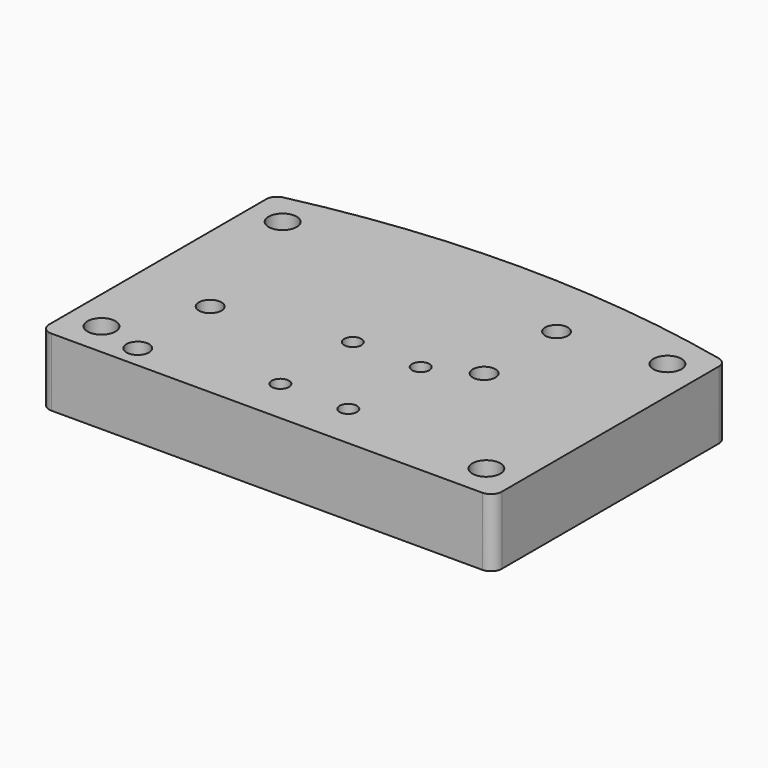
from build123d import *

# Parameters (mm, degrees)
F0_W           = 127
F0_H           = 19.05
F1_DEPTH       = 88.9
F2_R           = 3.937
F2_R_2         = 2.413
F3_DEPTH       = 19.05
F5_D           = 6.35
F5_CBORE_D     = 11.176
F5_CBORE_DEPTH = 6.35
F7_DEPTH       = 19.051
F8_R           = 3.048


with BuildPart() as f1:
    # F0 (on Front) → F1 (new body)
    with BuildSketch(Plane.XZ):
        Rectangle(F0_W, F0_H)
    extrude(amount=-F1_DEPTH)

    # F2 (on face) → F3 (cut, through all)
    with BuildSketch(Plane.XY.offset(9.525)):
        with Locations((-53.975, 73.025)):
            Circle(F2_R)
        with Locations((-53.975, 9.525)):
            Circle(F2_R)
        with Locations((53.975, 9.525)):
            Circle(F2_R)
        with Locations((53.975, 73.025)):
            Circle(F2_R)
        with Locations((-6.35, 38.1)):
            Circle(F2_R_2)
        with Locations((12.7, 38.1)):
            Circle(F2_R_2)
        with Locations((12.7, 12.7)):
            Circle(F2_R_2)
        with Locations((-6.35, 12.7)):
            Circle(F2_R_2)
    extrude(amount=-F3_DEPTH, mode=Mode.SUBTRACT)

    # F5 (through all)
    with Locations(Plane(origin=(0, 0, -9.525), x_dir=(1, 0, 0), z_dir=(0, 0, -1))):
        with Locations((25.4, -69.85), (25.4, -44.45), (-41.275, -31.75), (-41.275, -6.35)):
            CounterBoreHole(F5_D / 2, F5_CBORE_D / 2, F5_CBORE_DEPTH)

    # F6 (on face) → F7 (cut, through all)
    with BuildSketch(Plane(origin=(0, 0, -9.525), x_dir=(1, 0, 0), z_dir=(0, 0, -1))):
        with BuildLine():
            ThreePointArc((63.5, -81.5884231275), (0, -88.9), (-63.5, -81.5884231275))
            Line((-63.5, -81.5884231275), (-63.5, -94.2089855671))
            Line((-63.5, -94.2089855671), (63.5, -94.2089855671))
            Line((63.5, -94.2089855671), (63.5, -81.5884231275))
        make_face()
    extrude(amount=-F7_DEPTH, mode=Mode.SUBTRACT)

    # F8
    f8_edges = [f1.edges().sort_by_distance(p)[0] for p in [
        (63.5, 81.588423, 0),
        (63.5, 0, 0),
        (-63.5, 81.588423, 0),
        (-63.5, 0, 0),
    ]]
    fillet(f8_edges, radius=F8_R)


solid = f1.part
